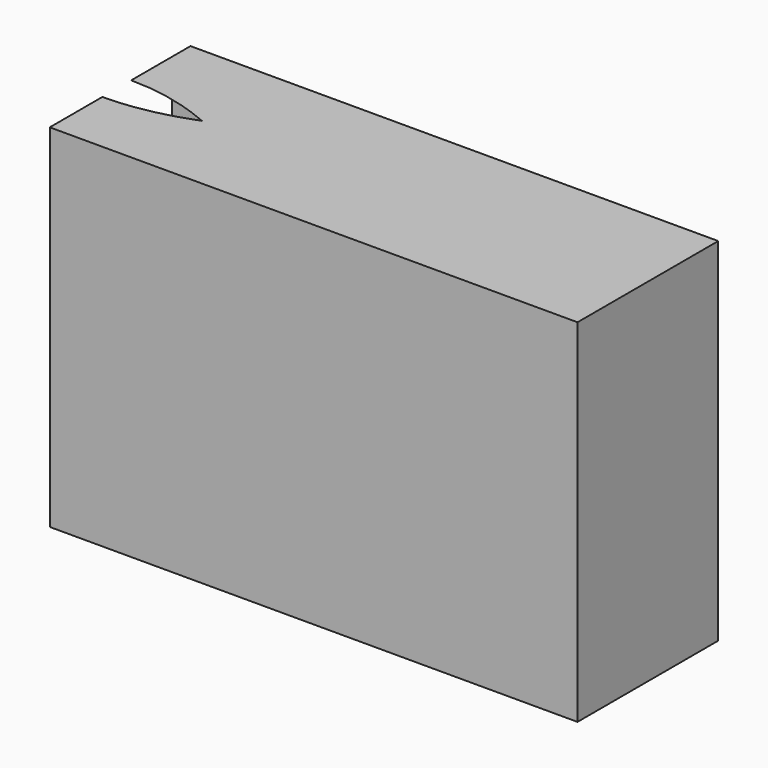
from build123d import *

# Parameters (mm, degrees)
F0_W     = 76.2
F0_H     = 50.8
F1_DEPTH = 25.4


with BuildPart() as f1:
    # F0 (on Front) → F1 (new body)
    with BuildSketch(Plane.XZ):
        with Locations((38.1, 25.4)):
            Rectangle(F0_W, F0_H)
    extrude(amount=F1_DEPTH)

    # F2 (on Right) → F3 (revolve, cut)
    with BuildSketch(Plane.YZ):
        Polygon((-12.915551, 29.374028), (-3.123319, 35.334518), (-3.38914, 46.795085), (-13.447192, 52.295162), (-23.239424, 46.334671), (-22.973604, 34.874104), align=None)
    revolve(axis=Axis((0, -12.7, 0), (0, -1, 0)), mode=Mode.SUBTRACT)


solid = f1.part
